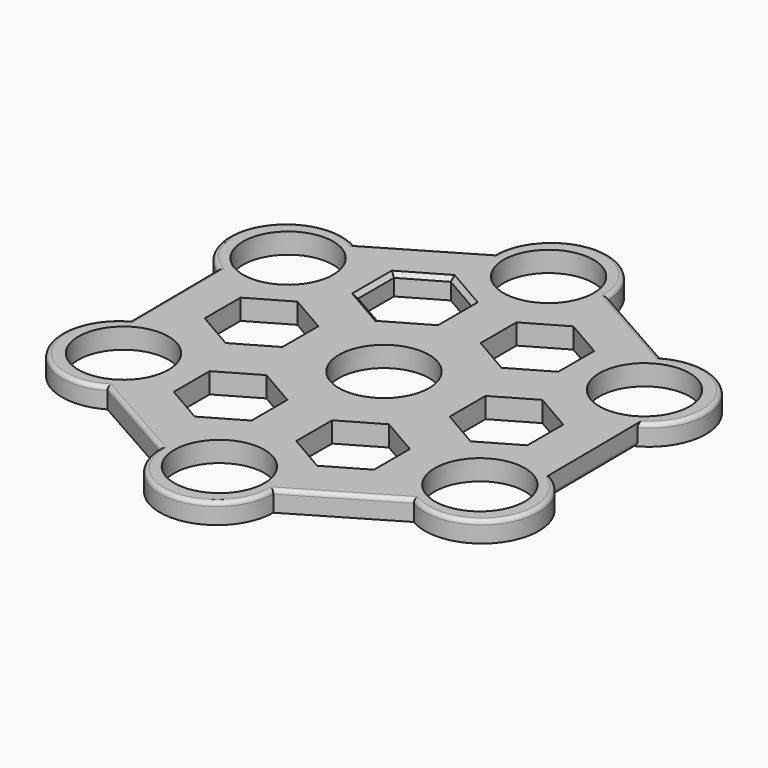
from build123d import *

# Parameters (mm, degrees)
F0_R     = 11
F1_DEPTH = 5
F2_R     = 1
F3_SIZE  = 1


with BuildPart() as f1:
    # F0 (on Top) → F1 (new body)
    with BuildSketch(Plane.XY):
        with BuildLine():
            Line((37.357962, 37.672123), (13.8195, 50.996188))
            ThreePointArc((13.8195, 50.996188), (0.033141, 64.975364), (-13.946035, 51.189005))
            Line((-13.946035, 51.189005), (-37.254244, 37.466132))
            ThreePointArc((-37.254244, 37.466132), (-56.253745, 32.516383), (-51.303997, 13.516882))
            Line((-51.303997, 13.516882), (-51.073744, -13.530056))
            ThreePointArc((-51.073744, -13.530056), (-56.286887, -32.458981), (-37.357962, -37.672123))
            Line((-37.357962, -37.672123), (-13.8195, -50.996188))
            ThreePointArc((-13.8195, -50.996188), (-0.033141, -64.975364), (13.946035, -51.189005))
            Line((13.946035, -51.189005), (37.254244, -37.466132))
            ThreePointArc((37.254244, -37.466132), (56.253745, -32.516383), (51.303997, -13.516882))
            Line((51.303997, -13.516882), (51.073744, 13.530056))
            ThreePointArc((51.073744, 13.530056), (56.286887, 32.458981), (37.357962, 37.672123))
        make_face()
        with Locations((-43.488632, -25.108173)):
            Circle(F0_R, mode=Mode.SUBTRACT)
        Polygon((-7.056279, -20.653774), (-7.056279, -31.60084), (-16.536716, -37.074373), (-26.017154, -31.60084), (-26.017154, -20.653774), (-16.536716, -15.180241), align=None, mode=Mode.SUBTRACT)
        with Locations((0, -50.216347)):
            Circle(F0_R, mode=Mode.SUBTRACT)
        Polygon((14.358553, -16.437804), (23.83899, -21.911337), (23.83899, -32.858403), (14.358553, -38.331936), (4.878116, -32.858403), (4.878116, -21.911337), align=None, mode=Mode.SUBTRACT)
        with Locations((43.488632, -25.108173)):
            Circle(F0_R, mode=Mode.SUBTRACT)
        Polygon((21.414832, 4.21597), (30.895269, 9.689503), (40.375707, 4.21597), (40.375707, -6.731096), (30.895269, -12.204629), (21.414832, -6.731096), align=None, mode=Mode.SUBTRACT)
        Polygon((-21.414832, -4.21597), (-30.895269, -9.689503), (-40.375707, -4.21597), (-40.375707, 6.731096), (-30.895269, 12.204629), (-21.414832, 6.731096), align=None, mode=Mode.SUBTRACT)
        with Locations((-43.488632, 25.108173)):
            Circle(F0_R, mode=Mode.SUBTRACT)
        Polygon((-14.358553, 38.331936), (-4.878116, 32.858403), (-4.878116, 21.911337), (-14.358553, 16.437804), (-23.83899, 21.911337), (-23.83899, 32.858403), align=None, mode=Mode.SUBTRACT)
        Circle(F0_R, mode=Mode.SUBTRACT)
        Polygon((7.056279, 20.653774), (7.056279, 31.60084), (16.536716, 37.074373), (26.017154, 31.60084), (26.017154, 20.653774), (16.536716, 15.180241), align=None, mode=Mode.SUBTRACT)
        with Locations((43.488632, 25.108173)):
            Circle(F0_R, mode=Mode.SUBTRACT)
        with Locations((0, 50.216347)):
            Circle(F0_R, mode=Mode.SUBTRACT)
    extrude(amount=F1_DEPTH)

    # F2
    f2_edges = [f1.edges().sort_by_distance(p)[0] for p in [
        (-25.588731, -44.334156, 5),
        (-56.286887, -32.458981, 5),
        (-51.18887, -0.006587, 5),
        (-56.253745, 32.516383, 5),
        (-25.60014, 44.327569, 5),
        (0.033141, 64.975364, 5),
        (25.588731, 44.334156, 5),
        (56.286887, 32.458981, 5),
        (51.18887, 0.006587, 0),
        (56.253745, -32.516383, 5),
        (25.60014, -44.327569, 5),
        (-0.033141, -64.975364, 5),
    ]]
    fillet(f2_edges, radius=F2_R)

    # F3
    f3_edges = [f1.edges().sort_by_distance(p)[0] for p in [
        (-19.098772, 35.595169, 5),
        (-9.618334, 35.595169, 5),
        (-4.878116, 27.38487, 5),
        (-9.618334, 19.17457, 5),
        (-19.098772, 19.17457, 5),
        (-23.83899, 27.38487, 5),
    ]]
    chamfer(f3_edges, length=F3_SIZE)


solid = f1.part
